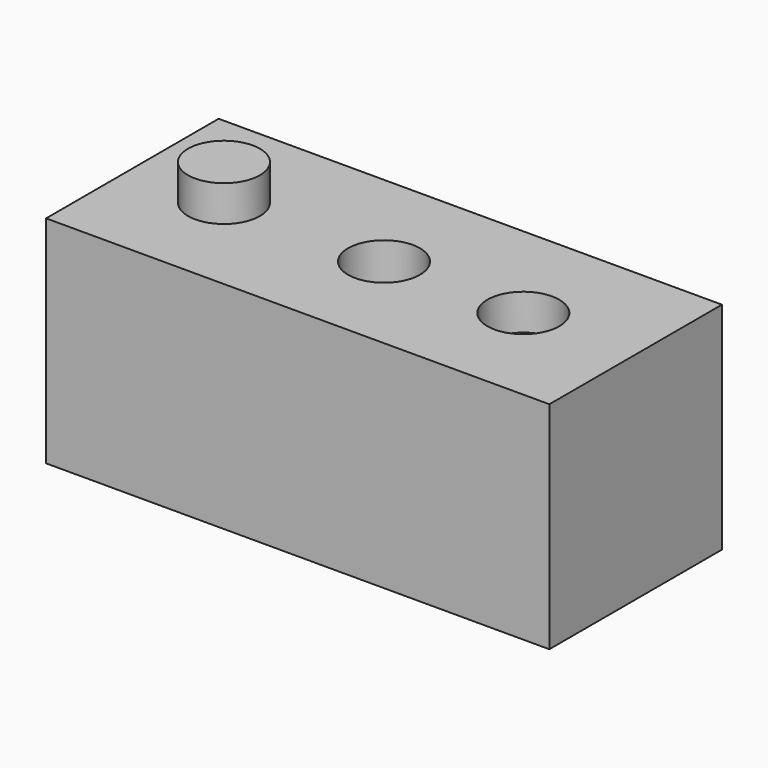
from build123d import *

# Parameters (mm, degrees)
F0_W     = 140
F0_H     = 60
F1_DEPTH = 60
F3_R     = 10
F6_DEPTH = 10
F4_R     = 10
F7_DEPTH = 10
F5_R     = 10
F8_DEPTH = 100.9


with BuildPart() as f1:
    # F0 (on Top) → F1 (new body)
    with BuildSketch(Plane.XY):
        Rectangle(F0_W, F0_H)
    extrude(amount=F1_DEPTH)

    # F3 (on face) → F6 (join)
    with BuildSketch(Plane.XY.offset(60)):
        with Locations((-44.394547, -0.153878)):
            Circle(F3_R)
    extrude(amount=F6_DEPTH)

    # F4 (on face) → F7 (cut)
    with BuildSketch(Plane.XY.offset(60)):
        with Locations((38.754456, 0)):
            Circle(F4_R)
    extrude(amount=-F7_DEPTH, mode=Mode.SUBTRACT)

    # F5 (on face) → F8 (cut)
    with BuildSketch(Plane.XY.offset(60)):
        Circle(F5_R)
    extrude(amount=-F8_DEPTH, mode=Mode.SUBTRACT)


solid = f1.part
